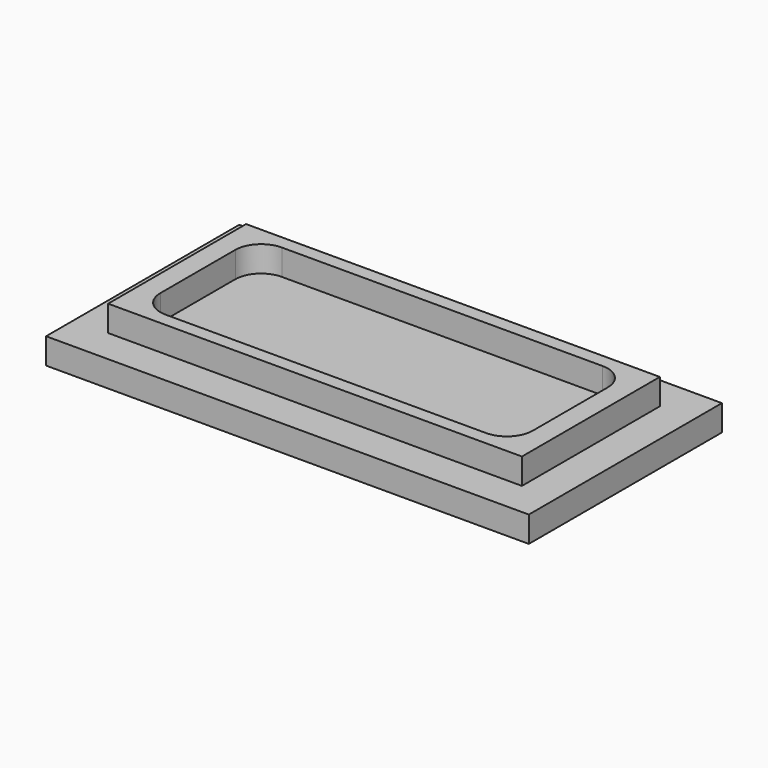
from build123d import *

# Parameters (mm, degrees)
F0_W     = 355.6
F0_H     = 177.8
F1_DEPTH = 19.05
F2_W     = 304.8
F2_H     = 127
F3_DEPTH = 19.05
F5_DEPTH = 19.05


with BuildPart() as f1:
    # F0 (on Top) → F1 (new body)
    with BuildSketch(Plane.XY):
        Rectangle(F0_W, F0_H)
    extrude(amount=F1_DEPTH)

    # F2 (on face) → F3 (join)
    with BuildSketch(Plane.XY.offset(19.05)):
        Rectangle(F2_W, F2_H)
    extrude(amount=F3_DEPTH)

    # F4 (on face) → F5 (cut)
    with BuildSketch(Plane.XY.offset(38.1)):
        with BuildLine():
            ThreePointArc((-137.163756, -34.489753), (-131.58414, -47.960137), (-118.113756, -53.539753))
            Line((-118.113756, -53.539753), (118.113756, -53.539753))
            ThreePointArc((118.113756, -53.539753), (131.58414, -47.960137), (137.163756, -34.489753))
            Line((137.163756, -34.489753), (137.163756, 34.489753))
            ThreePointArc((137.163756, 34.489753), (131.58414, 47.960137), (118.113756, 53.539753))
            Line((118.113756, 53.539753), (-118.113756, 53.539753))
            ThreePointArc((-118.113756, 53.539753), (-131.58414, 47.960137), (-137.163756, 34.489753))
            Line((-137.163756, 34.489753), (-137.163756, -34.489753))
        make_face()
    extrude(amount=-F5_DEPTH, mode=Mode.SUBTRACT)


solid = f1.part
